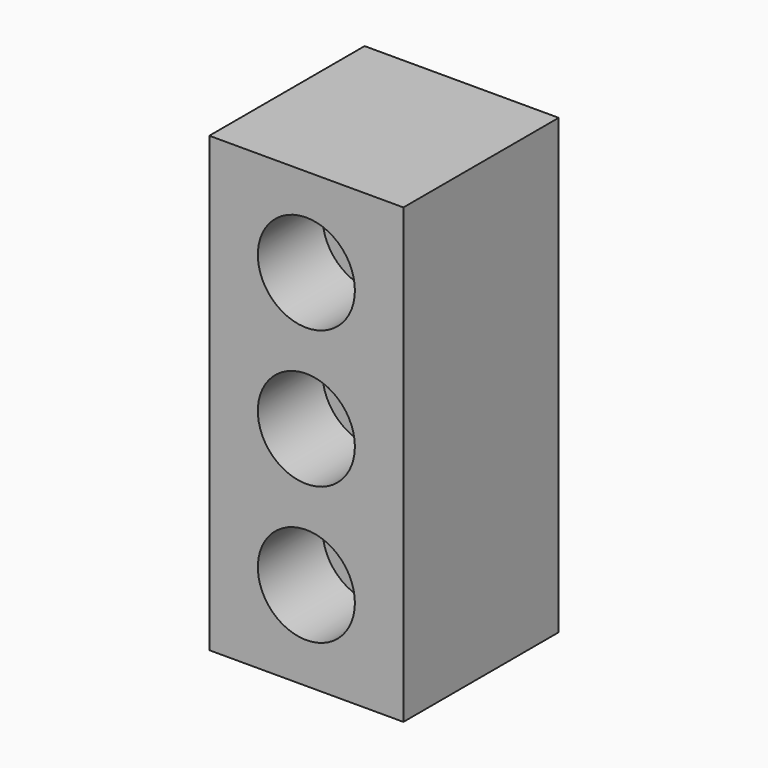
from build123d import *

# Parameters (mm, degrees)
F0_W     = 12
F0_H     = 28
F1_DEPTH = 12
F2_R     = 3
F3_DEPTH = 5


with BuildPart() as f1:
    # F0 (on Front) → F1 (new body)
    with BuildSketch(Plane.XZ):
        Rectangle(F0_W, F0_H)
    extrude(amount=F1_DEPTH)

    # F2 (on face) → F3 (cut)
    with BuildSketch(Plane.XZ.offset(12)):
        with Locations((0, 8.5)):
            Circle(F2_R)
        Circle(F2_R)
        with Locations((0, -8.5)):
            Circle(F2_R)
    extrude(amount=-F3_DEPTH, mode=Mode.SUBTRACT)


solid = f1.part
